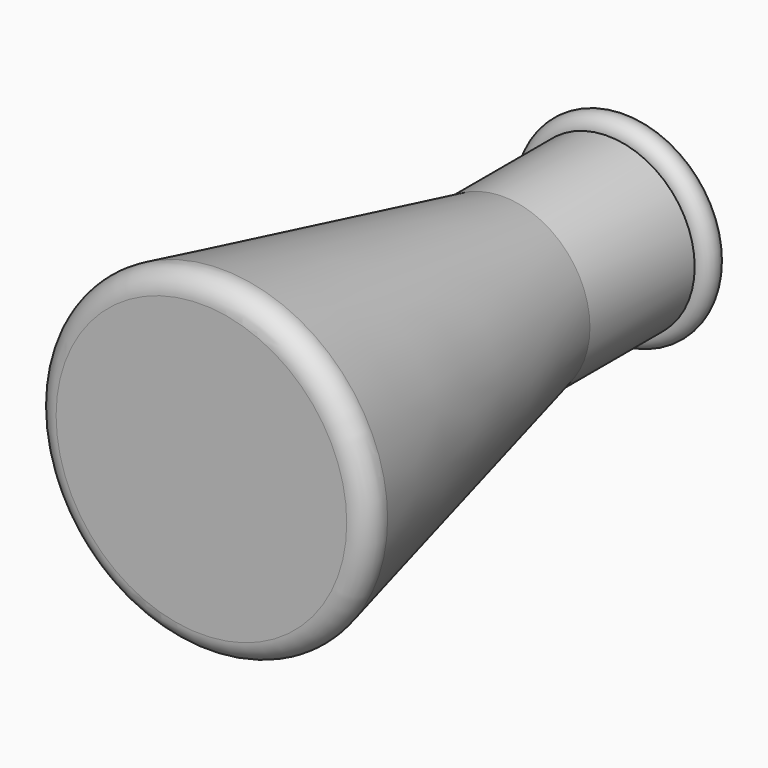
from build123d import *


with BuildPart() as f1:
    # F0 (on Top) → F1 (revolve)
    with BuildSketch(Plane.XY):
        with BuildLine():
            ThreePointArc((27.753387, 0), (30.876036, 1.500188), (31.656405, 4.875469))
            Line((31.656405, 4.875469), (16.6, 72))
            Line((16.6, 72), (16.6, 97))
            ThreePointArc((16.6, 97), (19.1, 99.5), (16.6, 102))
            Line((16.6, 102), (14.6, 102))
            Line((14.6, 102), (14.6, 71.778447))
            Line((14.6, 71.778447), (30.251693, 2))
            Line((30.251693, 2), (0, 2))
            Line((0, 2), (0, 0))
            Line((0, 0), (27.753387, 0))
        make_face()
    revolve(axis=Axis((0, 18.507346, 0), (0, 1, 0)))


solid = f1.part
